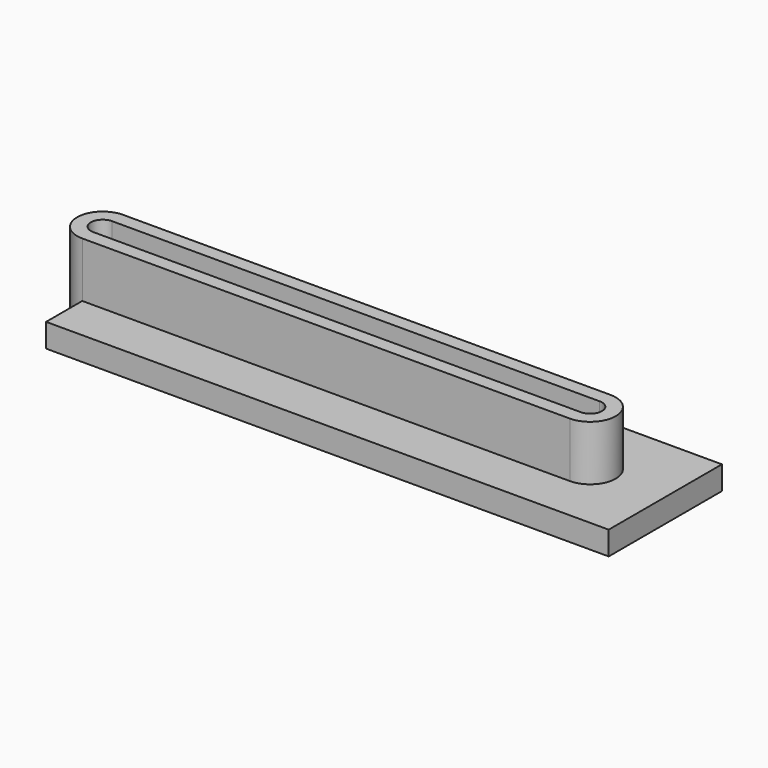
from build123d import *

# Parameters (mm, degrees)
F1_DEPTH = 3
F2_DEPTH = 10


with BuildPart() as f1:
    # F0 (on Top) → F1 (new body)
    with BuildSketch(Plane.XY):
        with BuildLine():
            Line((28.379236, 17.204217), (-33.620764, 17.204217))
            Line((-33.620764, 17.204217), (-33.620764, 11.454217))
            Line((-33.620764, 11.454217), (37.929236, 11.454217))
            Line((37.929236, 11.454217), (37.929236, 29.454217))
            Line((37.929236, 29.454217), (-33.620764, 29.454217))
            Line((-33.620764, 29.454217), (-33.620764, 23.704217))
            Line((-33.620764, 23.704217), (28.379236, 23.704217))
            ThreePointArc((28.379236, 23.704217), (31.629236, 20.454217), (28.379236, 17.204217))
        make_face()
    extrude(amount=F1_DEPTH)

    # F0 (on Top) → F2 (join)
    with BuildSketch(Plane.XY):
        with BuildLine():
            Line((-33.620764, 18.954217), (-33.620764, 17.204217))
            Line((-33.620764, 17.204217), (28.379236, 17.204217))
            ThreePointArc((28.379236, 17.204217), (31.629236, 20.454217), (28.379236, 23.704217))
            Line((28.379236, 23.704217), (-33.620764, 23.704217))
            Line((-33.620764, 23.704217), (-33.620764, 21.954217))
            Line((-33.620764, 21.954217), (28.379236, 21.954217))
            ThreePointArc((28.379236, 21.954217), (29.879236, 20.454217), (28.379236, 18.954217))
            Line((28.379236, 18.954217), (-33.620764, 18.954217))
        make_face()
        with BuildLine():
            ThreePointArc((-33.620764, 23.704217), (-36.870764, 20.454217), (-33.620764, 17.204217))
            Line((-33.620764, 17.204217), (-33.620764, 18.954217))
            ThreePointArc((-33.620764, 18.954217), (-35.120764, 20.454217), (-33.620764, 21.954217))
            Line((-33.620764, 21.954217), (-33.620764, 23.704217))
        make_face()
    extrude(amount=F2_DEPTH)


solid = f1.part
